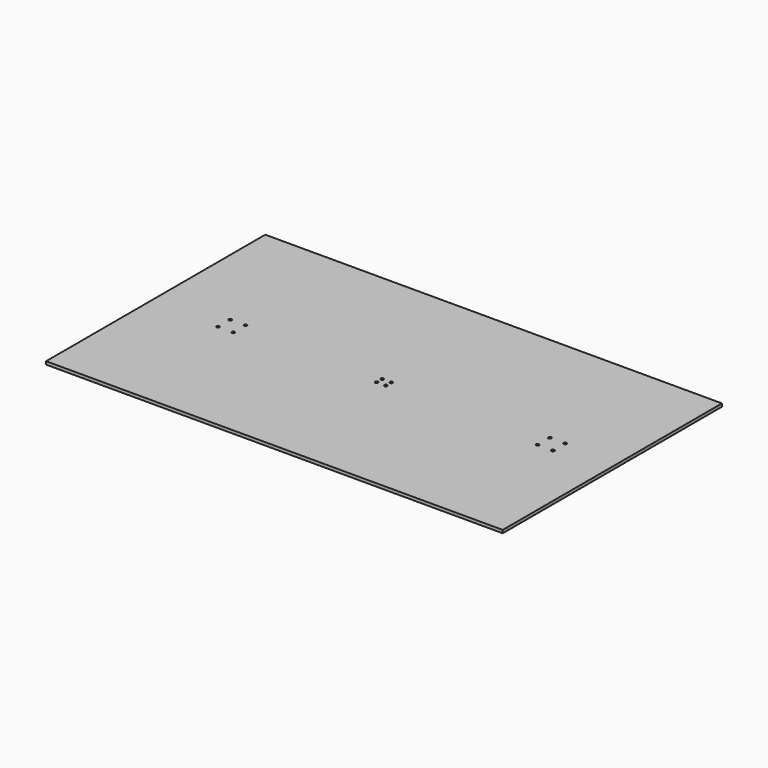
from build123d import *

# Parameters (mm, degrees)
F0_W     = 600
F0_H     = 360
F1_DEPTH = 4
F2_D     = 4


with BuildPart() as f1:
    # F0 (on Top) → F1 (new body)
    with BuildSketch(Plane.XY):
        Rectangle(F0_W, F0_H)
    extrude(amount=F1_DEPTH)

    # F2 (through all)
    with Locations(Plane(origin=(0, 0, 0), x_dir=(1, 0, 0), z_dir=(0, 0, -1))):
        with Locations((-210, 10), (-190, 10), (-210, -10), (-190, -10), (230, 10), (210, 10), (210, -10), (230, -10), (-6, 4.5), (-6, -4.5), (6, -4.5), (6, 4.5)):
            Hole(F2_D / 2)


solid = f1.part
